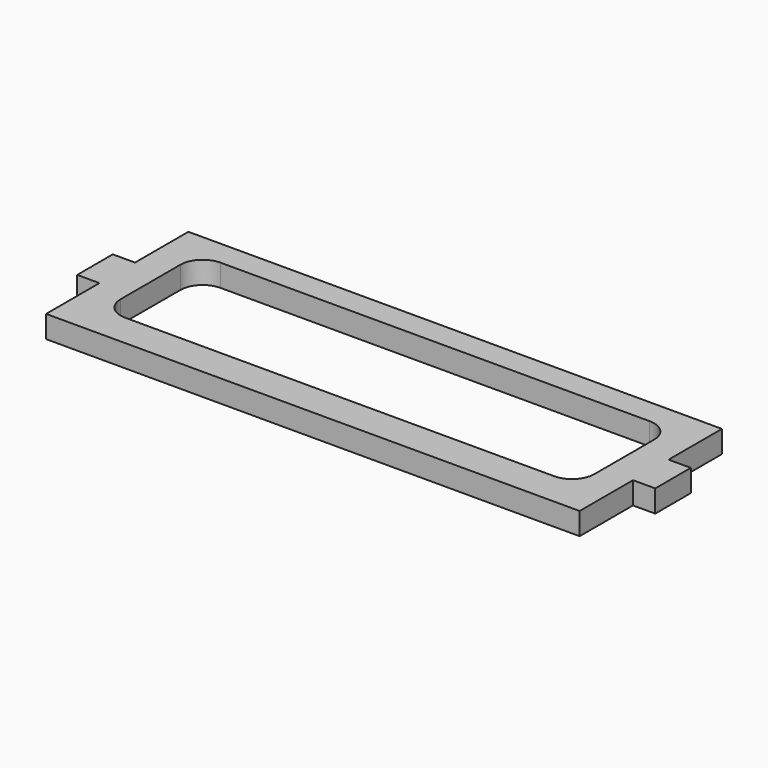
from build123d import *

# Parameters (mm, degrees)
F1_DEPTH = 5
F3_DEPTH = 25


with BuildPart() as f1:
    # F0 (on Top) → F1 (new body)
    with BuildSketch(Plane.XY):
        Polygon((47.113799, 25), (-72.886201, 25), (-72.886201, 10), (-77.886201, 10), (-77.886201, 0), (-72.886201, 0), (-72.886201, -15), (47.113799, -15), (47.113799, 0), (52.113799, 0), (52.113799, 10), (47.113799, 10), align=None)
        with BuildLine():
            ThreePointArc((-62.401845, 10.947084), (-60.937379, 14.482618), (-57.401845, 15.947084))
            Line((-57.401845, 15.947084), (-27.401845, 15.947084))
            ThreePointArc((-27.401845, 15.947084), (-25.855638, 15.702002), (-24.46101, 14.990782))
            ThreePointArc((-24.46101, 14.990782), (-22.946277, 13.215985), (-22.401845, 10.947084))
            Line((-22.401845, 10.947084), (-22.401845, 0.947084))
            ThreePointArc((-22.401845, 0.947084), (-23.866311, -2.58845), (-27.401845, -4.052916))
            Line((-27.401845, -4.052916), (-57.401845, -4.052916))
            ThreePointArc((-57.401845, -4.052916), (-60.937379, -2.58845), (-62.401845, 0.947084))
            Line((-62.401845, 0.947084), (-62.401845, 10.947084))
        make_face(mode=Mode.SUBTRACT)
        with BuildLine():
            ThreePointArc((2.598155, -4.052916), (-0.937379, -2.58845), (-2.401845, 0.947084))
            Line((-2.401845, 0.947084), (-2.401845, 10.947084))
            ThreePointArc((-2.401845, 10.947084), (-0.937379, 14.482618), (2.598155, 15.947084))
            Line((2.598155, 15.947084), (32.598155, 15.947084))
            ThreePointArc((32.598155, 15.947084), (36.133689, 14.482618), (37.598155, 10.947084))
            Line((37.598155, 10.947084), (37.598155, 0.947084))
            ThreePointArc((37.598155, 0.947084), (36.133689, -2.58845), (32.598155, -4.052916))
            Line((32.598155, -4.052916), (2.598155, -4.052916))
        make_face(mode=Mode.SUBTRACT)
    extrude(amount=F1_DEPTH)

    # F2 (on face) → F3 (cut)
    with BuildSketch(Plane.XY.offset(5)):
        with BuildLine():
            ThreePointArc((40.378798, 14.351363), (38.914332, 17.886897), (35.378798, 19.351363))
            Line((35.378798, 19.351363), (-61.151201, 19.351363))
            ThreePointArc((-61.151201, 19.351363), (-64.686735, 17.886897), (-66.151201, 14.351363))
            Line((-66.151201, 14.351363), (-66.151201, -2.457194))
            ThreePointArc((-66.151201, -2.457194), (-64.686735, -5.992728), (-61.151201, -7.457194))
            Line((-61.151201, -7.457194), (35.378798, -7.457194))
            ThreePointArc((35.378798, -7.457194), (38.914332, -5.992728), (40.378798, -2.457194))
            Line((40.378798, -2.457194), (40.378798, 14.351363))
        make_face()
        with BuildLine():
            ThreePointArc((-57.401845, -4.052916), (-60.937379, -2.58845), (-62.401845, 0.947084))
            Line((-62.401845, 0.947084), (-62.401845, 10.947084))
            ThreePointArc((-62.401845, 10.947084), (-60.937379, 14.482618), (-57.401845, 15.947084))
            Line((-57.401845, 15.947084), (-27.401845, 15.947084))
            ThreePointArc((-27.401845, 15.947084), (-23.866311, 14.482618), (-22.401845, 10.947084))
            Line((-22.401845, 10.947084), (-22.401845, 0.947084))
            ThreePointArc((-22.401845, 0.947084), (-23.866311, -2.58845), (-27.401845, -4.052916))
            Line((-27.401845, -4.052916), (-57.401845, -4.052916))
        make_face(mode=Mode.SUBTRACT)
        with BuildLine():
            ThreePointArc((37.598155, 0.947084), (36.133689, -2.58845), (32.598155, -4.052916))
            Line((32.598155, -4.052916), (2.598155, -4.052916))
            ThreePointArc((2.598155, -4.052916), (-0.937379, -2.58845), (-2.401845, 0.947084))
            Line((-2.401845, 0.947084), (-2.401845, 10.947084))
            ThreePointArc((-2.401845, 10.947084), (-0.937379, 14.482618), (2.598155, 15.947084))
            Line((2.598155, 15.947084), (32.598155, 15.947084))
            ThreePointArc((32.598155, 15.947084), (36.133689, 14.482618), (37.598155, 10.947084))
            Line((37.598155, 10.947084), (37.598155, 0.947084))
        make_face(mode=Mode.SUBTRACT)
    extrude(amount=-F3_DEPTH, mode=Mode.SUBTRACT)


solid = f1.part
